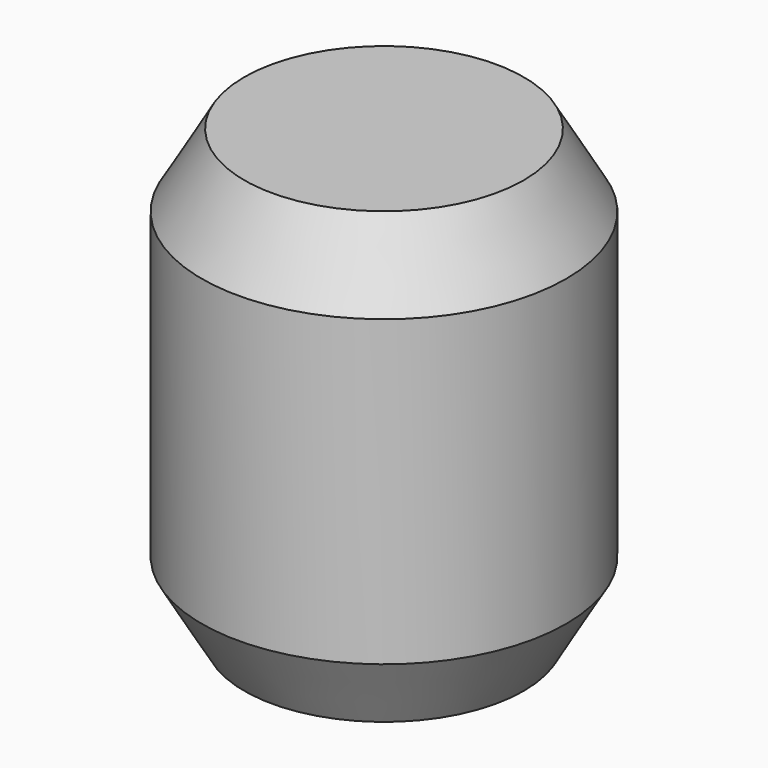
from build123d import *

# Parameters (mm, degrees)
F0_R       = 30
F0_R_2     = 23
F1_DEPTH   = 74
F2_SIZE2   = 12
F2_SIZE    = 7
F2_2_SIZE2 = 12
F2_2_SIZE  = 7


with BuildPart() as f1:
    # F0 (on Top) → F1 (new body)
    with BuildSketch(Plane.XY):
        Circle(F0_R)
        Circle(F0_R_2, mode=Mode.SUBTRACT)
        Circle(F0_R_2)
    extrude(amount=F1_DEPTH)

    # F2
    f2_edges = [f1.edges().sort_by_distance(p)[0] for p in [
        (-30, 0, 74),
    ]]
    f2_side = f1.faces().sort_by_distance((0, 0, 74))[0]
    chamfer(f2_edges, length=F2_SIZE, length2=F2_SIZE2, reference=f2_side)

    # F2#2
    f2_2_edges = [f1.edges().sort_by_distance(p)[0] for p in [
        (-30, 0, 0),
    ]]
    f2_2_side = f1.faces().sort_by_distance((0, 0, 0))[0]
    chamfer(f2_2_edges, length=F2_2_SIZE, length2=F2_2_SIZE2, reference=f2_2_side)


solid = f1.part
